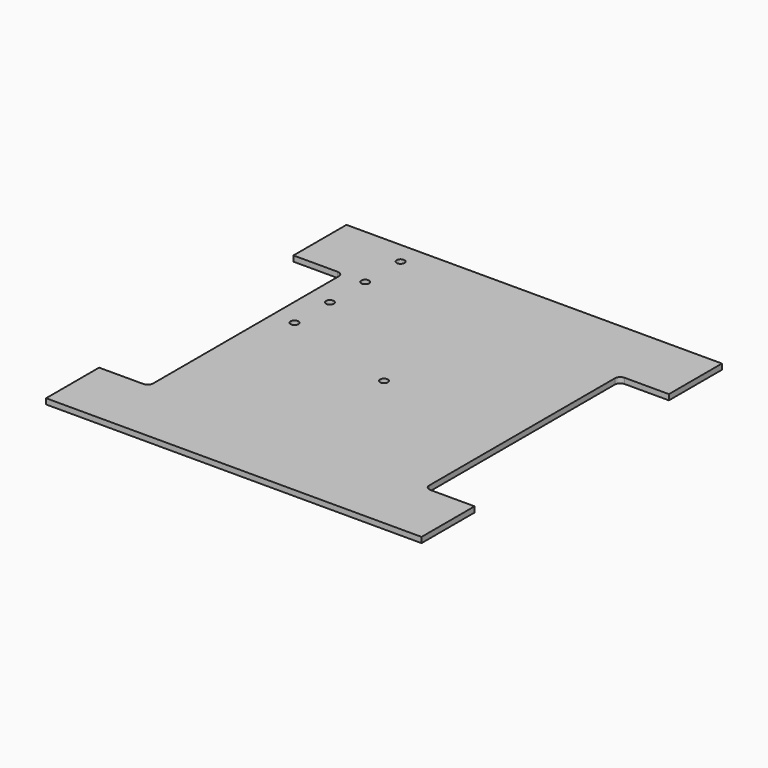
from build123d import *

# Parameters (mm, degrees)
F1_DEPTH = 3.175
F2_D     = 4.4958
F3_D     = 4.4958
F4_D     = 4.4958
F5_D     = 4.4958
F6_D     = 4.4958


with BuildPart() as f1:
    # F0 (on Top) → F1 (new body)
    with BuildSketch(Plane.XY):
        with BuildLine():
            Line((-107.95, -69.85), (-107.95, -107.95))
            Line((-107.95, -107.95), (107.95, -107.95))
            Line((107.95, -107.95), (107.95, -69.85))
            Line((107.95, -69.85), (82.55, -69.85))
            ThreePointArc((82.55, -69.85), (80.3049359697, -68.9200640303), (79.375, -66.675))
            Line((79.375, -66.675), (79.375, 66.675))
            ThreePointArc((79.375, 66.675), (80.3049359697, 68.9200640303), (82.55, 69.85))
            Line((82.55, 69.85), (107.95, 69.85))
            Line((107.95, 69.85), (107.95, 107.95))
            Line((107.95, 107.95), (-107.95, 107.95))
            Line((-107.95, 107.95), (-107.95, 69.85))
            Line((-107.95, 69.85), (-82.55, 69.85))
            ThreePointArc((-82.55, 69.85), (-80.3049359697, 68.9200640303), (-79.375, 66.675))
            Line((-79.375, 66.675), (-79.375, -66.675))
            ThreePointArc((-79.375, -66.675), (-80.3049359697, -68.9200640303), (-82.55, -69.85))
            Line((-82.55, -69.85), (-107.95, -69.85))
        make_face()
    extrude(amount=F1_DEPTH)

    # F2 (through all)
    with Locations(Plane(origin=(0, 0, 0), x_dir=(1, 0, 0), z_dir=(0, 0, -1))):
        with Locations((0, 0)):
            Hole(F2_D / 2)

    # F3 (through all)
    with Locations(Plane(origin=(0, 0, 0), x_dir=(1, 0, 0), z_dir=(0, 0, -1))):
        with Locations((-66.675, -95.25)):
            Hole(F3_D / 2)

    # F4 (through all)
    with Locations(Plane(origin=(0, 0, 0), x_dir=(1, 0, 0), z_dir=(0, 0, -1))):
        with Locations((-66.675, -69.85)):
            Hole(F4_D / 2)

    # F5 (through all)
    with Locations(Plane(origin=(0, 0, 0), x_dir=(1, 0, 0), z_dir=(0, 0, -1))):
        with Locations((-66.675, -44.45)):
            Hole(F5_D / 2)

    # F6 (through all)
    with Locations(Plane(origin=(0, 0, 0), x_dir=(1, 0, 0), z_dir=(0, 0, -1))):
        with Locations((-66.675, -19.05)):
            Hole(F6_D / 2)


solid = f1.part
